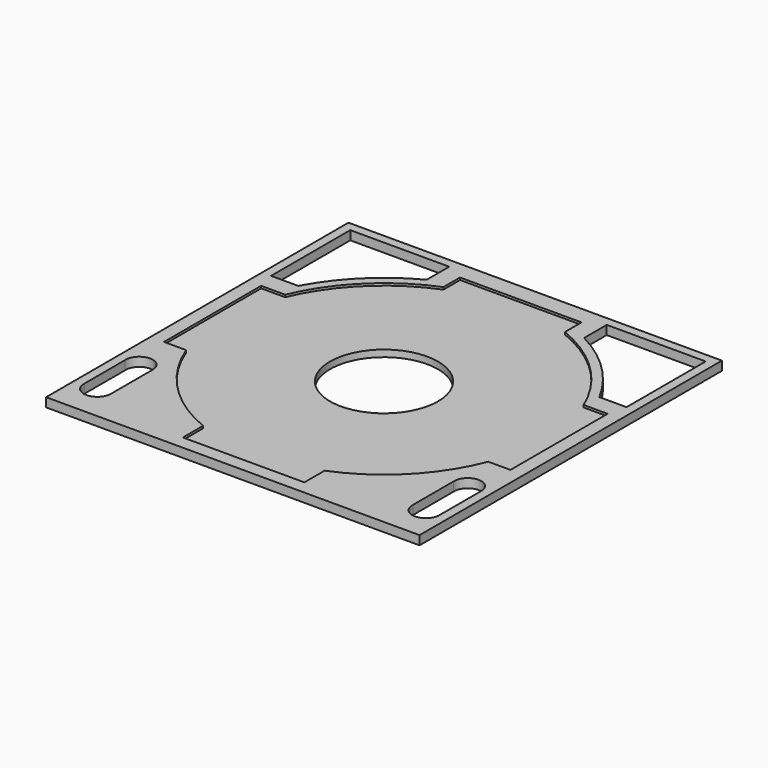
from build123d import *

# Parameters (mm, degrees)
F0_W      = 269.875
F0_H      = 273.05
F1_DEPTH  = 6.35
F3_DEPTH  = 6.35
F4_R      = 38.1
F5_DEPTH  = 6.35
F7_DEPTH  = 1.5875
F8_W      = 3.175
F8_H      = 273.05
F9_DEPTH  = 6.35
F10_W     = 263.525
F10_H     = 3.175
F11_DEPTH = 6.35
F12_W     = 263.525
F12_H     = 3.175
F13_DEPTH = 6.35


with BuildPart() as f1:
    # F0 (on Top) → F1 (new body)
    with BuildSketch(Plane.XY):
        Rectangle(F0_W, F0_H)
    extrude(amount=F1_DEPTH)

    # F2 (on face) → F3 (cut, through all)
    with BuildSketch(Plane.XY.offset(6.35)):
        with BuildLine():
            Line((-55.5625, 127), (-125.4125, 127))
            Line((-125.4125, 127), (-125.4125, 57.15))
            Line((-125.4125, 57.15), (-106.251468, 57.15))
            ThreePointArc((-106.251468, 57.15), (-84.672021, 85.939978), (-55.5625, 107.0864))
            Line((-55.5625, 107.0864), (-55.5625, 127))
        make_face()
        with BuildLine():
            Line((55.5625, 127), (55.5625, 107.0864))
            ThreePointArc((55.5625, 107.0864), (84.672021, 85.939978), (106.251468, 57.15))
            Line((106.251468, 57.15), (125.4125, 57.15))
            Line((125.4125, 57.15), (125.4125, 127))
            Line((125.4125, 127), (55.5625, 127))
        make_face()
        with BuildLine():
            ThreePointArc((-106.3625, -71.485033), (-115.8875, -61.4553), (-125.4125, -71.485033))
            Line((-125.4125, -71.485033), (-125.4125, -107.445267))
            ThreePointArc((-125.4125, -107.445267), (-115.8875, -117.475), (-106.3625, -107.445267))
            Line((-106.3625, -107.445267), (-106.3625, -71.485033))
        make_face()
        with BuildLine():
            ThreePointArc((125.4125, -71.483554), (115.8875, -61.455376), (106.3625, -71.483554))
            Line((106.3625, -71.483554), (106.3625, -107.445267))
            ThreePointArc((106.3625, -107.445267), (115.8875, -117.475), (125.4125, -107.445267))
            Line((125.4125, -107.445267), (125.4125, -71.483554))
        make_face()
    extrude(amount=-F3_DEPTH, mode=Mode.SUBTRACT)

    # F4 (on face) → F5 (cut, through all)
    with BuildSketch(Plane.XY.offset(6.35)):
        Circle(F4_R)
    extrude(amount=-F5_DEPTH, mode=Mode.SUBTRACT)

    # F6 (on face) → F7 (cut)
    with BuildSketch(Plane.XY.offset(6.35)):
        with BuildLine():
            ThreePointArc((106.587356, -41.275), (112.355295, -20.994705), (114.3, 0))
            ThreePointArc((114.3, 0), (112.028131, 22.675711), (105.302837, 44.45))
            Line((105.302837, 44.45), (42.8625, 44.45))
            Line((42.8625, 44.45), (42.8625, 105.958936))
            ThreePointArc((42.8625, 105.958936), (0, 114.3), (-42.8625, 105.958936))
            Line((-42.8625, 105.958936), (-42.8625, 44.45))
            Line((-42.8625, 44.45), (-105.302837, 44.45))
            ThreePointArc((-105.302837, 44.45), (-114.287171, 1.712499), (-106.587356, -41.275))
            Line((-106.587356, -41.275), (-42.8625, -41.275))
            Line((-42.8625, -41.275), (-42.8625, -105.958936))
            ThreePointArc((-42.8625, -105.958936), (0, -114.3), (42.8625, -105.958936))
            Line((42.8625, -105.958936), (42.8625, -41.275))
            Line((42.8625, -41.275), (106.587356, -41.275))
        make_face()
        with BuildLine():
            ThreePointArc((105.302837, 44.45), (112.028131, 22.675711), (114.3, 0))
            ThreePointArc((114.3, 0), (112.355295, -20.994705), (106.587356, -41.275))
            Line((106.587356, -41.275), (122.2375, -41.275))
            Line((122.2375, -41.275), (122.2375, 44.45))
            Line((122.2375, 44.45), (105.302837, 44.45))
        make_face()
        with BuildLine():
            Line((42.8625, 44.45), (105.302837, 44.45))
            ThreePointArc((105.302837, 44.45), (80.212711, 81.427335), (42.8625, 105.958936))
            Line((42.8625, 105.958936), (42.8625, 44.45))
        make_face()
        with BuildLine():
            ThreePointArc((42.8625, -105.958936), (81.423693, -80.216409), (106.587356, -41.275))
            Line((106.587356, -41.275), (42.8625, -41.275))
            Line((42.8625, -41.275), (42.8625, -105.958936))
        make_face()
        with BuildLine():
            ThreePointArc((-42.8625, 105.958936), (0, 114.3), (42.8625, 105.958936))
            Line((42.8625, 105.958936), (42.8625, 120.65))
            Line((42.8625, 120.65), (-42.8625, 120.65))
            Line((-42.8625, 120.65), (-42.8625, 105.958936))
        make_face()
        with BuildLine():
            Line((42.8625, -123.825), (42.8625, -105.958936))
            ThreePointArc((42.8625, -105.958936), (0, -114.3), (-42.8625, -105.958936))
            Line((-42.8625, -105.958936), (-42.8625, -123.825))
            Line((-42.8625, -123.825), (42.8625, -123.825))
        make_face()
        with BuildLine():
            Line((-42.8625, 44.45), (-42.8625, 105.958936))
            ThreePointArc((-42.8625, 105.958936), (-80.212711, 81.427335), (-105.302837, 44.45))
            Line((-105.302837, 44.45), (-42.8625, 44.45))
        make_face()
        with BuildLine():
            ThreePointArc((-106.587356, -41.275), (-81.423693, -80.216409), (-42.8625, -105.958936))
            Line((-42.8625, -105.958936), (-42.8625, -41.275))
            Line((-42.8625, -41.275), (-106.587356, -41.275))
        make_face()
        with BuildLine():
            ThreePointArc((-106.587356, -41.275), (-114.287171, 1.712499), (-105.302837, 44.45))
            Line((-105.302837, 44.45), (-122.2375, 44.45))
            Line((-122.2375, 44.45), (-122.2375, -41.275))
            Line((-122.2375, -41.275), (-106.587356, -41.275))
        make_face()
    extrude(amount=-F7_DEPTH, mode=Mode.SUBTRACT)

    # F8 (on face) → F9 (cut, through all)
    with BuildSketch(Plane.XY.offset(6.35)):
        with Locations((-133.35, 0)):
            Rectangle(F8_W, F8_H)
        with Locations((133.35, 0)):
            Rectangle(F8_W, F8_H)
    extrude(amount=-F9_DEPTH, mode=Mode.SUBTRACT)

    # F10 (on face) → F11 (cut, through all)
    with BuildSketch(Plane.XY.offset(6.35)):
        with Locations((0, 134.9375)):
            Rectangle(F10_W, F10_H)
    extrude(amount=-F11_DEPTH, mode=Mode.SUBTRACT)

    # F12 (on face) → F13 (cut, through all)
    with BuildSketch(Plane.XY.offset(6.35)):
        with Locations((0, -134.9375)):
            Rectangle(F12_W, F12_H)
    extrude(amount=-F13_DEPTH, mode=Mode.SUBTRACT)


solid = f1.part
